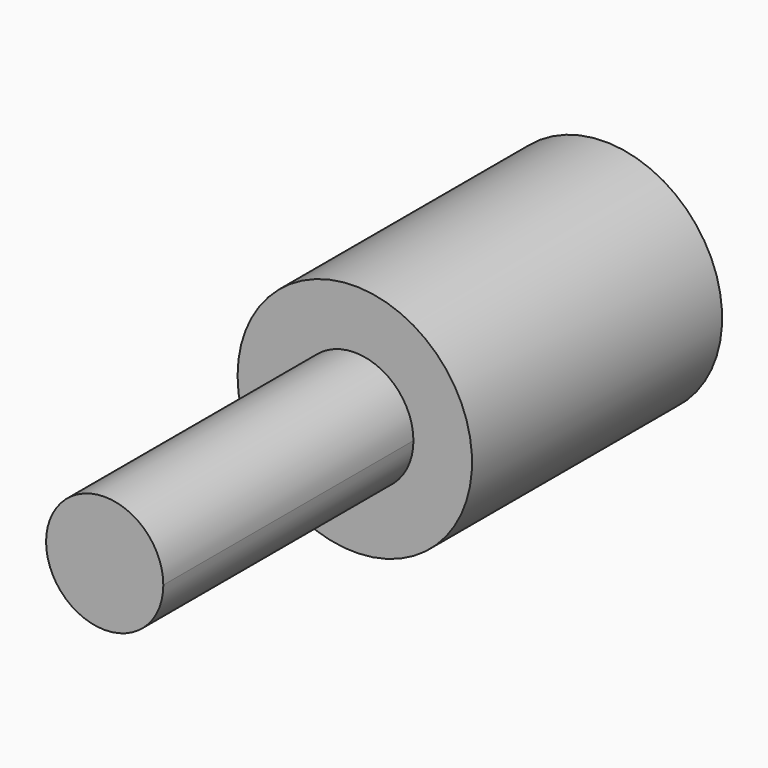
from build123d import *

# Parameters (mm, degrees)
F1_DEPTH = 12.7
F2_DEPTH = 12.7


with BuildPart() as f1:
    # F0 (on Front) → F1 (new body)
    with BuildSketch(Plane.XZ):
        with BuildLine():
            ThreePointArc((4.7625, 0), (0, 4.7625), (-4.7625, 0))
            ThreePointArc((-4.7625, 0), (0, -4.7625), (4.7625, 0))
        make_face()
        with BuildLine():
            ThreePointArc((0, -2.38125), (-1.683798, -1.683798), (-2.38125, 0))
            ThreePointArc((-2.38125, 0), (0, 2.38125), (2.38125, 0))
            ThreePointArc((2.38125, 0), (1.683798, -1.683798), (0, -2.38125))
        make_face(mode=Mode.SUBTRACT)
    extrude(amount=-F1_DEPTH)


with BuildPart() as f2:
    # F0 (on Front) → F2 (new body)
    with BuildSketch(Plane.XZ):
        with BuildLine():
            Line((-2.38125, 0), (0, 0))
            Line((0, 0), (0, -2.38125))
            ThreePointArc((0, -2.38125), (1.683798, -1.683798), (2.38125, 0))
            ThreePointArc((2.38125, 0), (0, 2.38125), (-2.38125, 0))
        make_face()
        with BuildLine():
            Line((0, -2.38125), (0, 0))
            Line((0, 0), (-2.38125, 0))
            ThreePointArc((-2.38125, 0), (-1.683798, -1.683798), (0, -2.38125))
        make_face()
    extrude(amount=F2_DEPTH)


solid = Compound([f1.part, f2.part])
